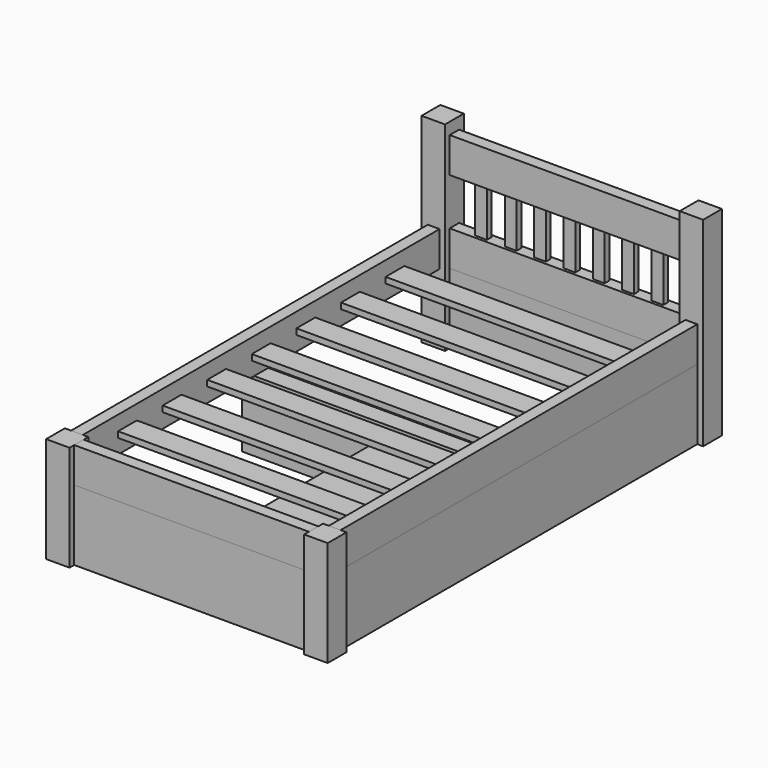
from build123d import *

# Parameters (mm, degrees)
F0_W      = 1219.2
F0_H      = 2133.6
F1_DEPTH  = 609.6
F3_DEPTH  = 609.6
F4_W      = 23.6339016438
F4_H      = 152.4
F4_W_2    = 27.1660983562
F5_DEPTH  = 1930.4
F6_W      = 25.4
F6_H      = 152.4
F7_DEPTH  = 1016
F8_W      = 25.4
F8_H      = 152.4
F9_DEPTH  = 1930.4
F10_W     = 25.4
F10_H     = 152.4
F11_DEPTH = 1016
F14_DEPTH = 1066.8
F15_W     = 101.6
F15_H     = 101.6
F16_DEPTH = 254
F17_W     = 101.6
F17_H     = 101.6
F18_DEPTH = 254
F19_W     = 25.4
F19_H     = 152.4
F20_DEPTH = 1016
F22_DEPTH = 203.2
F23_W     = 101.6
F23_H     = 101.6
F24_DEPTH = 76.2
F25_DEPTH = 76.2
F12_W     = 101.6
F12_H     = 101.6
F26_W     = 101.4268994331
F26_H     = 0.2518656492
F27_DEPTH = 152.4
F28_W     = 1016
F28_H     = 50.8
F29_DEPTH = 304.8
F30_DEPTH = 304.8
F31_W     = 50.8
F31_H     = 1930.4
F32_DEPTH = 304.8
F35_W     = 76.3207674026
F35_H     = 304.8
F36_DEPTH = 1117.6
F33_W     = 508
F33_H     = 152.4
F37_DEPTH = 965.2


with BuildPart() as f1:
    # F0 (on Top) → F1 (new body)
    with BuildSketch(Plane.XY):
        with Locations((609.6, 1066.8)):
            Rectangle(F0_W, F0_H)
    extrude(amount=F1_DEPTH)

    # F2 (on face) → F3 (cut)
    with BuildSketch(Plane.XY.offset(609.6)):
        Polygon((101.6, 101.6), (101.6, 0), (1117.6, 0), (1117.6, 101.6), (1219.2, 101.6), (1219.2, 2032), (1117.6, 2032), (1117.6, 2133.6), (101.6, 2133.6), (101.6, 2032), (0, 2032), (0, 101.6), align=None)
    extrude(amount=-F3_DEPTH, mode=Mode.SUBTRACT)

    # F15 (on face) → F16 (join)
    with BuildSketch(Plane.XY.offset(609.6)):
        with Locations((1168.4, 2082.8)):
            Rectangle(F15_W, F15_H)
    extrude(amount=F16_DEPTH)

    # F17 (on face) → F18 (join)
    with BuildSketch(Plane.XY.offset(609.6)):
        with Locations((50.8, 2082.8)):
            Rectangle(F17_W, F17_H)
    extrude(amount=F18_DEPTH)

    # F23 (on face) → F24 (cut)
    with BuildSketch(Plane.XY.offset(609.6)):
        with Locations((1168.4, 50.8)):
            Rectangle(F23_W, F23_H)
    extrude(amount=-F24_DEPTH, mode=Mode.SUBTRACT)

    # F25 (cut): a face of the model
    f25_faces = [f1.faces().sort_by_distance(p)[0] for p in [
        (1168.4, 50.8, 533.4),
    ]]
    extrude(f25_faces, amount=-F25_DEPTH, mode=Mode.SUBTRACT)

    # F12 (on face) + F26 (on face) → F27 (cut)
    with BuildSketch(Plane.XY.offset(609.6)):
        with Locations((50.8, 50.8)):
            Rectangle(F12_W, F12_H)
    with BuildSketch(Plane.XY.offset(609.6)):
        with Locations((50.7134497166, 101.7259328246)):
            Rectangle(F26_W, F26_H)
    extrude(amount=-F27_DEPTH, mode=Mode.SUBTRACT)


with BuildPart() as f5:
    # F4 (on face) → F5 (new body)
    with BuildSketch(Plane.XZ.offset(-2032)):
        with Locations((38.9830491781, 381)):
            Rectangle(F4_W, F4_H)
        with Locations((64.3830491781, 381)):
            Rectangle(F4_W_2, F4_H)
    extrude(amount=F5_DEPTH)


with BuildPart() as f7:
    # F6 (on face) → F7 (new body)
    with BuildSketch(Plane.YZ.offset(101.6)):
        with Locations((38.1, 381)):
            Rectangle(F6_W, F6_H)
        with Locations((63.5, 381)):
            Rectangle(F6_W, F6_H)
    extrude(amount=F7_DEPTH)


with BuildPart() as f9:
    # F8 (on face) → F9 (new body)
    with BuildSketch(Plane(origin=(0, 101.6, 0), x_dir=(-1, 0, 0), z_dir=(0, 1, 0))):
        with Locations((-1155.7, 381)):
            Rectangle(F8_W, F8_H)
        with Locations((-1155.7, 381)):
            Rectangle(F8_W, F8_H)
        with Locations((-1181.1, 381)):
            Rectangle(F8_W, F8_H)
    extrude(amount=F9_DEPTH)


with BuildPart() as f11:
    # F10 (on face) → F11 (new body)
    with BuildSketch(Plane(origin=(1117.6, 0, 0), x_dir=(0, -1, 0), z_dir=(-1, 0, 0))):
        with Locations((-2095.5, 381)):
            Rectangle(F10_W, F10_H)
        with Locations((-2070.1, 381)):
            Rectangle(F10_W, F10_H)
    extrude(amount=F11_DEPTH)


with BuildPart() as f14:
    # F13 (on face) → F14 (new body)
    with BuildSketch(Plane.YZ.offset(77.9660983562)):
        Polygon((292.1, 393.7), (292.1, 381), (342.9, 381), (393.7, 381), (393.7, 393.7), align=None)
        Polygon((342.9, 381), (292.1, 381), (292.1, 368.3), (393.7, 368.3), (393.7, 381), align=None)
    extrude(amount=F14_DEPTH)


with BuildPart() as f14b:
    # F13 (on face) → F14, piece 2 (new body)
    with BuildSketch(Plane.YZ.offset(77.9660983562)):
        Polygon((1739.9, 393.7), (1739.9, 381), (1790.7, 381), (1841.5, 381), (1841.5, 393.7), align=None)
        Polygon((1790.7, 381), (1739.9, 381), (1739.9, 368.3), (1841.5, 368.3), (1841.5, 381), align=None)
    extrude(amount=F14_DEPTH)


with BuildPart() as f14c:
    # F13 (on face) → F14, piece 3 (new body)
    with BuildSketch(Plane.YZ.offset(77.9660983562)):
        Polygon((1498.6, 393.7), (1498.6, 381), (1549.4, 381), (1600.2, 381), (1600.2, 393.7), align=None)
        Polygon((1549.4, 381), (1498.6, 381), (1498.6, 368.3), (1600.2, 368.3), (1600.2, 381), align=None)
    extrude(amount=F14_DEPTH)


with BuildPart() as f14d:
    # F13 (on face) → F14, piece 4 (new body)
    with BuildSketch(Plane.YZ.offset(77.9660983562)):
        Polygon((1257.3, 393.7), (1257.3, 381), (1308.1, 381), (1358.9, 381), (1358.9, 393.7), align=None)
        Polygon((1308.1, 381), (1257.3, 381), (1257.3, 368.3), (1358.9, 368.3), (1358.9, 381), align=None)
    extrude(amount=F14_DEPTH)


with BuildPart() as f14e:
    # F13 (on face) → F14, piece 5 (new body)
    with BuildSketch(Plane.YZ.offset(77.9660983562)):
        Polygon((1016, 393.7), (1016, 381), (1066.8, 381), (1117.6, 381), (1117.6, 393.7), align=None)
        Polygon((1066.8, 381), (1016, 381), (1016, 368.3), (1117.6, 368.3), (1117.6, 381), align=None)
    extrude(amount=F14_DEPTH)


with BuildPart() as f14f:
    # F13 (on face) → F14, piece 6 (new body)
    with BuildSketch(Plane.YZ.offset(77.9660983562)):
        Polygon((774.7, 393.7), (774.7, 381), (825.5, 381), (876.3, 381), (876.3, 393.7), align=None)
        Polygon((825.5, 381), (774.7, 381), (774.7, 368.3), (876.3, 368.3), (876.3, 381), align=None)
    extrude(amount=F14_DEPTH)


with BuildPart() as f14g:
    # F13 (on face) → F14, piece 7 (new body)
    with BuildSketch(Plane.YZ.offset(77.9660983562)):
        Polygon((533.4, 393.7), (533.4, 381), (584.2, 381), (635, 381), (635, 393.7), align=None)
        Polygon((584.2, 381), (533.4, 381), (533.4, 368.3), (635, 368.3), (635, 381), align=None)
    extrude(amount=F14_DEPTH)


with BuildPart() as f20:
    # F19 (on face) → F20 (new body)
    with BuildSketch(Plane.YZ.offset(101.6)):
        with Locations((2095.5, 736.6)):
            Rectangle(F19_W, F19_H)
        with Locations((2070.1, 736.6)):
            Rectangle(F19_W, F19_H)
    extrude(amount=F20_DEPTH)


with BuildPart() as f22:
    # F21 (on face) → F22 (new body)
    with BuildSketch(Plane.XY.offset(457.2)):
        Polygon((201.714379406, 2095.5), (201.714379406, 2082.8), (227.114379406, 2082.8), (252.514379406, 2082.8), (252.514379406, 2095.5), align=None)
        Polygon((227.114379406, 2082.8), (201.714379406, 2082.8), (201.714379406, 2070.1), (252.514379406, 2070.1), (252.514379406, 2082.8), align=None)
    extrude(amount=F22_DEPTH)


with BuildPart() as f22b:
    # F21 (on face) → F22, piece 2 (new body)
    with BuildSketch(Plane.XY.offset(457.2)):
        Polygon((965.2, 2095.5), (965.2, 2082.8), (990.6, 2082.8), (1016, 2082.8), (1016, 2095.5), align=None)
        Polygon((990.6, 2082.8), (965.2, 2082.8), (965.2, 2070.1), (1016, 2070.1), (1016, 2082.8), align=None)
    extrude(amount=F22_DEPTH)


with BuildPart() as f22c:
    # F21 (on face) → F22, piece 3 (new body)
    with BuildSketch(Plane.XY.offset(457.2)):
        Polygon((838.2, 2095.5), (838.2, 2082.8), (863.6, 2082.8), (889, 2082.8), (889, 2095.5), align=None)
        Polygon((863.6, 2082.8), (838.2, 2082.8), (838.2, 2070.1), (889, 2070.1), (889, 2082.8), align=None)
    extrude(amount=F22_DEPTH)


with BuildPart() as f22d:
    # F21 (on face) → F22, piece 4 (new body)
    with BuildSketch(Plane.XY.offset(457.2)):
        Polygon((711.2, 2095.5), (711.2, 2082.8), (736.6, 2082.8), (762, 2082.8), (762, 2095.5), align=None)
        Polygon((736.6, 2082.8), (711.2, 2082.8), (711.2, 2070.1), (762, 2070.1), (762, 2082.8), align=None)
    extrude(amount=F22_DEPTH)


with BuildPart() as f22e:
    # F21 (on face) → F22, piece 5 (new body)
    with BuildSketch(Plane.XY.offset(457.2)):
        Polygon((584.2, 2095.5), (584.2, 2082.8), (609.6, 2082.8), (635, 2082.8), (635, 2095.5), align=None)
        Polygon((609.6, 2082.8), (584.2, 2082.8), (584.2, 2070.1), (635, 2070.1), (635, 2082.8), align=None)
    extrude(amount=F22_DEPTH)


with BuildPart() as f22f:
    # F21 (on face) → F22, piece 6 (new body)
    with BuildSketch(Plane.XY.offset(457.2)):
        Polygon((457.2, 2095.5), (457.2, 2082.8), (482.6, 2082.8), (508, 2082.8), (508, 2095.5), align=None)
        Polygon((482.6, 2082.8), (457.2, 2082.8), (457.2, 2070.1), (508, 2070.1), (508, 2082.8), align=None)
    extrude(amount=F22_DEPTH)


with BuildPart() as f22g:
    # F21 (on face) → F22, piece 7 (new body)
    with BuildSketch(Plane.XY.offset(457.2)):
        Polygon((330.2, 2095.5), (330.2, 2082.8), (355.6, 2082.8), (381, 2082.8), (381, 2095.5), align=None)
        Polygon((355.6, 2082.8), (330.2, 2082.8), (330.2, 2070.1), (381, 2070.1), (381, 2082.8), align=None)
    extrude(amount=F22_DEPTH)


with BuildPart() as f29:
    # F28 (on face) → F29 (new body)
    with BuildSketch(Plane(origin=(0, 0, 304.8), x_dir=(1, 0, 0), z_dir=(0, 0, -1))):
        with Locations((609.6, -2082.8)):
            Rectangle(F28_W, F28_H)
    extrude(amount=F29_DEPTH)


with BuildPart() as f30:
    # F30 (new): a face of the model
    f30_faces = [f7.part.faces().sort_by_distance(p)[0] for p in [
        (609.6, 50.8, 304.8),
    ]]
    extrude(f30_faces, amount=F30_DEPTH)


with BuildPart() as f32:
    # F31 (on face) → F32 (new body)
    with BuildSketch(Plane(origin=(0, 0, 304.8), x_dir=(1, 0, 0), z_dir=(0, 0, -1))):
        with Locations((1168.4, -1066.8)):
            Rectangle(F31_W, F31_H)
    extrude(amount=F32_DEPTH)


with BuildPart() as f36:
    # F35 (on face) → F36 (new body)
    with BuildSketch(Plane(origin=(1143, 0, 0), x_dir=(0, -1, 0), z_dir=(-1, 0, 0))):
        with Locations((-1066.7298436165, 152.4)):
            Rectangle(F35_W, F35_H)
    extrude(amount=F36_DEPTH)


with BuildPart() as f37:
    # F33 (on face) → F37 (new body)
    with BuildSketch(Plane(origin=(0, 76.2, 0), x_dir=(-1, 0, 0), z_dir=(0, 1, 0))):
        with Locations((-863.6, 152.4)):
            Rectangle(F33_W, F33_H)
    extrude(amount=F37_DEPTH)


solid = Compound([f1.part, f5.part, f7.part, f9.part, f11.part, f14.part, f14b.part, f14c.part, f14d.part, f14e.part, f14f.part, f14g.part, f20.part, f22.part, f22b.part, f22c.part, f22d.part, f22e.part, f22f.part, f22g.part, f29.part, f30.part, f32.part, f36.part, f37.part])
